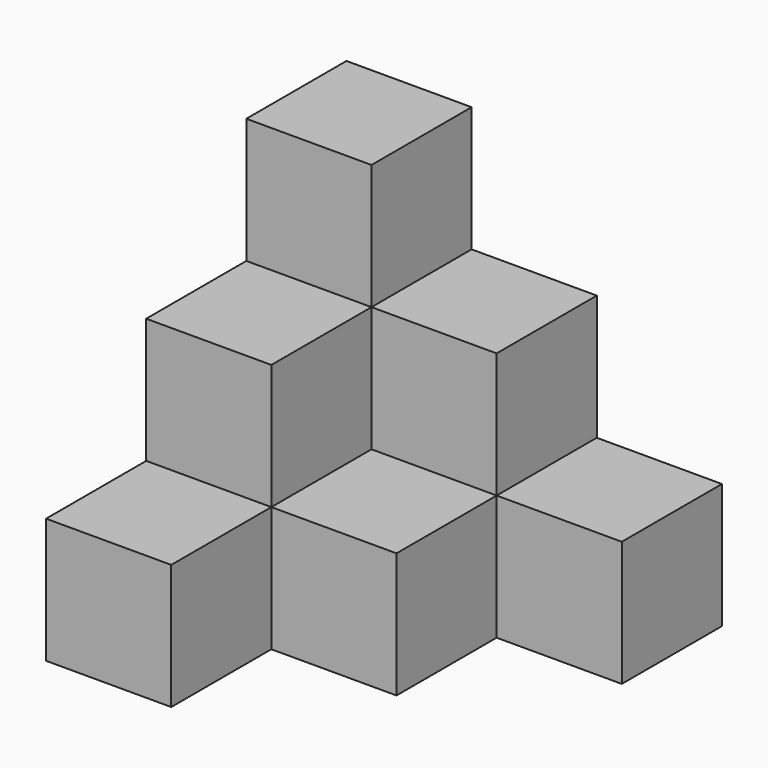
from build123d import *

# Parameters (mm, degrees)
BOX_W        = 10
BOX_H        = 10
BOX_DEPTH    = 30
BOX001_W     = 10
BOX001_H     = 10
BOX001_DEPTH = 20
BOX002_W     = 10
BOX002_H     = 10
BOX002_DEPTH = 10
BOX003_W     = 10
BOX003_H     = 10
BOX003_DEPTH = 20
BOX004_W     = 10
BOX004_H     = 10
BOX004_DEPTH = 10
BOX005_W     = 10
BOX005_H     = 10
BOX005_DEPTH = 10


with BuildPart() as cubo:
    # Box → Box (new body)
    with BuildSketch(Plane.XY):
        with Locations((5, 5)):
            Rectangle(BOX_W, BOX_H)
    extrude(amount=BOX_DEPTH)


with BuildPart() as cubo001:
    # Box001 → Box001 (new body)
    with BuildSketch(Plane(origin=(10, 0, 0), x_dir=(1, 0, 0), z_dir=(0, 0, 1))):
        with Locations((5, 5)):
            Rectangle(BOX001_W, BOX001_H)
    extrude(amount=BOX001_DEPTH)


with BuildPart() as cubo002:
    # Box002 → Box002 (new body)
    with BuildSketch(Plane(origin=(20, 0, 0), x_dir=(1, 0, 0), z_dir=(0, 0, 1))):
        with Locations((5, 5)):
            Rectangle(BOX002_W, BOX002_H)
    extrude(amount=BOX002_DEPTH)


with BuildPart() as cubo003:
    # Box003 → Box003 (new body)
    with BuildSketch(Plane(origin=(0, -10, 0), x_dir=(1, 0, 0), z_dir=(0, 0, 1))):
        with Locations((5, 5)):
            Rectangle(BOX003_W, BOX003_H)
    extrude(amount=BOX003_DEPTH)


with BuildPart() as cubo004:
    # Box004 → Box004 (new body)
    with BuildSketch(Plane(origin=(0, -20, 0), x_dir=(1, 0, 0), z_dir=(0, 0, 1))):
        with Locations((5, 5)):
            Rectangle(BOX004_W, BOX004_H)
    extrude(amount=BOX004_DEPTH)


with BuildPart() as connect:
    # Box005 → Box005 (new body)
    with BuildSketch(Plane(origin=(10, -10, 0), x_dir=(1, 0, 0), z_dir=(0, 0, 1))):
        with Locations((5, 5)):
            Rectangle(BOX005_W, BOX005_H)
    extrude(amount=BOX005_DEPTH)

    # Connect: union Cubo, Cubo001, Cubo002, Cubo003, Cubo004
    add(cubo.part)
    add(cubo001.part)
    add(cubo002.part)
    add(cubo003.part)
    add(cubo004.part)


solid = connect.part
